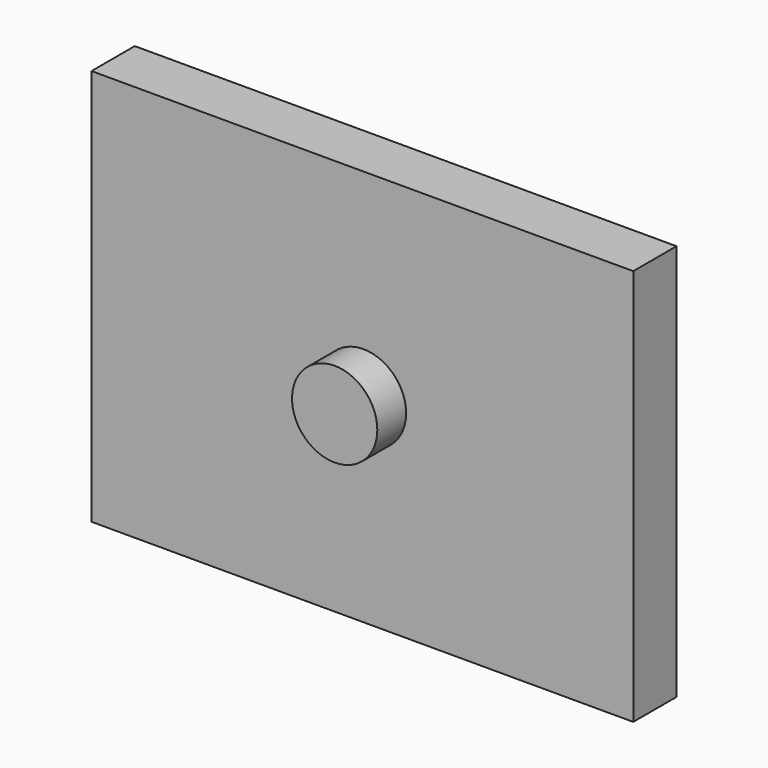
from build123d import *

# Parameters (mm, degrees)
F1_R     = 11.83242
F2_DEPTH = 25
F0_W     = 150.383114
F0_H     = 110.157176
F3_DEPTH = 15


with BuildPart() as f2:
    # F1 (on face) → F2 (new body)
    with BuildSketch(Plane.XZ):
        Circle(F1_R)
    extrude(amount=F2_DEPTH)

    # F0 (on Front) → F3 (join)
    with BuildSketch(Plane.XZ):
        with Locations((-0.30943, 0.154715)):
            Rectangle(F0_W, F0_H)
    extrude(amount=F3_DEPTH)


solid = f2.part
